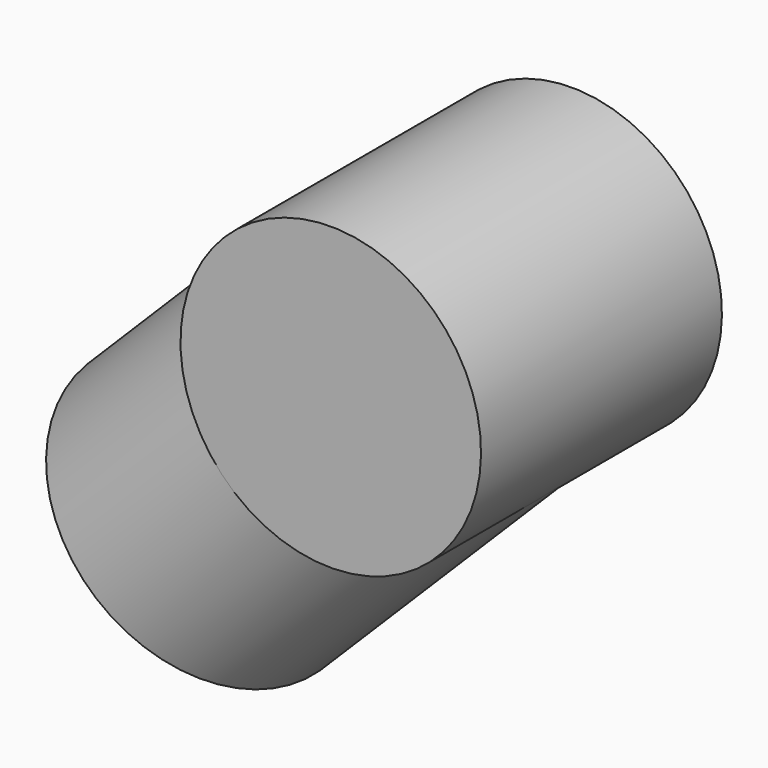
from build123d import *

# Parameters (mm, degrees)
CYLINDER046_R             = 13.9827
CYLINDER046_DEPTH         = 28.0162
CYLINDER045_R             = 13.9827
CYLINDER045_DEPTH         = 32.1945
FUSION018_PLACEMENT_ANGLE = 225


with BuildPart() as cylinder046:
    # Cylinder046 → Cylinder046 (new body)
    with BuildSketch(Plane.XZ.offset(-14.0081)):
        Circle(CYLINDER046_R)
    extrude(amount=CYLINDER046_DEPTH)


with BuildPart() as middle_inner_slip_r:
    # Cylinder045 → Cylinder045 (new body)
    with BuildSketch(Plane.XY):
        Circle(CYLINDER045_R)
    extrude(amount=CYLINDER045_DEPTH)

    # Fusion018: union Cylinder046
    add(cylinder046.part)


with BuildPart() as middle_inner_slip_r_1:
    # Fusion018 placement: moved
    add(middle_inner_slip_r.part.moved(Location((0, 186, 406))).rotate(Axis((0, 186, 406), (0, 1, 0)), FUSION018_PLACEMENT_ANGLE))


solid = middle_inner_slip_r_1.part
